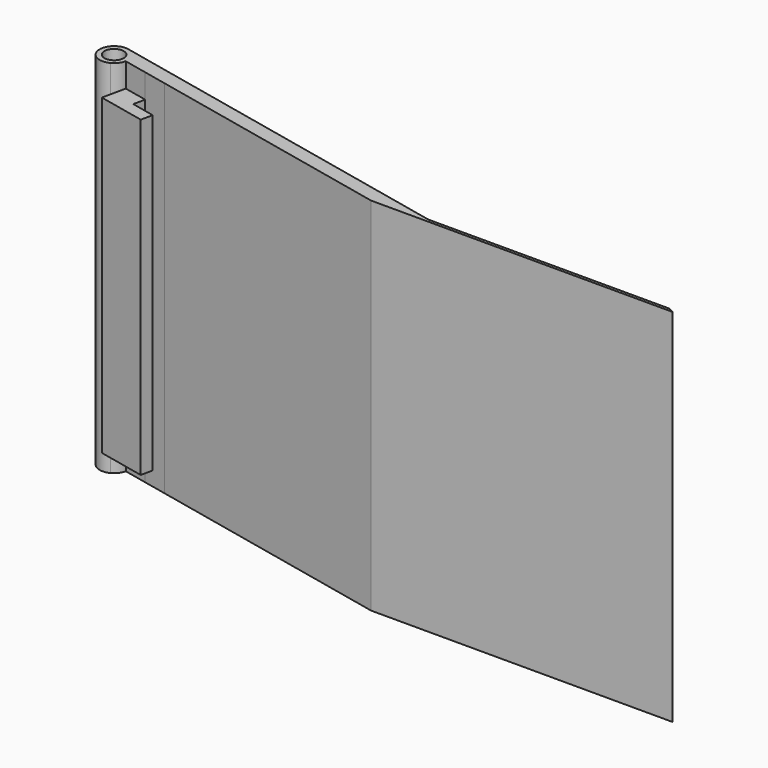
from build123d import *

# Parameters (mm, degrees)
F0_R     = 2
F1_DEPTH = 75
F2_W     = 10
F2_H     = 75
F3_DEPTH = 5
F4_W     = 2.5
F4_H     = 75
F5_DEPTH = 5
F7_DEPTH = 5
F9_DEPTH = 5


with BuildPart() as f1:
    # F0 (on Top) → F1 (new body)
    with BuildSketch(Plane.XY):
        with BuildLine():
            Line((75, 0.6), (-0.3646306216, 16.9319457282))
            ThreePointArc((-0.3646306216, 16.9319457282), (-3.9741969781, 13.6073776176), (0.3744351102, 11.3333676429))
            ThreePointArc((0.3744351102, 11.3333676429), (1.3807008009, 12.1745510972), (1.9319457282, 13.3646306216))
            Line((1.9319457282, 13.3646306216), (63.6037432565, 0))
            Line((63.6037432565, 0), (75, 0))
            Line((75, 0), (76.2, 0))
            Line((76.2, 0), (125, 0))
            Line((125, 0), (126.2, 0))
            Line((126.2, 0), (125, 0.6))
            Line((125, 0.6), (75, 0.6))
        make_face()
        with Locations((-1, 14)):
            Circle(F0_R, mode=Mode.SUBTRACT)
    extrude(amount=F1_DEPTH)

    # F2 (on face) → F3 (join)
    with BuildSketch(Plane(origin=(2.8529405822, 13.1650457786, 0), x_dir=(0.9773152427, -0.2117897928, 0), z_dir=(-0.2117897928, -0.9773152427, 0))):
        with Locations((4.0576276581, 37.5)):
            Rectangle(F2_W, F2_H)
    extrude(amount=F3_DEPTH)

    # F4 (on face) → F5 (cut)
    with BuildSketch(Plane(origin=(8.8521575732, -1.9183130849, 0), x_dir=(0.2117897928, 0.9773152427, 0), z_dir=(0.9773152427, -0.2117897928, 0))):
        with Locations((12.2206236054, 37.5)):
            Rectangle(F4_W, F4_H)
    extrude(amount=-F5_DEPTH, mode=Mode.SUBTRACT)

    # F6 (on face) → F7 (cut)
    with BuildSketch(Plane.XY.offset(75)):
        Polygon((6.2890474598, 9.8623935508), (6.8185219418, 12.3056816576), (1.9319457282, 13.3646306216), (0.8729967642, 8.478054408), (10.6461491915, 6.36015648), (11.1756236735, 8.8034445868), align=None)
    extrude(amount=-F7_DEPTH, mode=Mode.SUBTRACT)

    # F8 (on face) → F9 (cut)
    with BuildSketch(Plane(origin=(0, 0, 0), x_dir=(1, 0, 0), z_dir=(0, 0, -1))):
        Polygon((1.9319457282, -13.3646306216), (6.8185219418, -12.3056816576), (6.2890474598, -9.8623935508), (11.1756236735, -8.8034445868), (10.6461491915, -6.36015648), (0.8729967642, -8.478054408), align=None)
    extrude(amount=-F9_DEPTH, mode=Mode.SUBTRACT)


solid = f1.part
